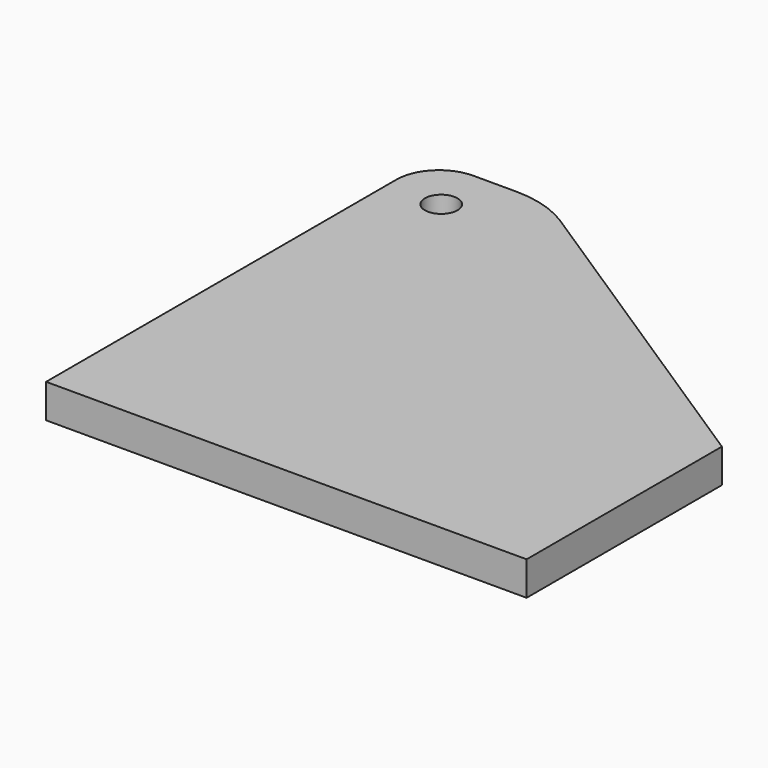
from build123d import *

# Parameters (mm, degrees)
F0_R     = 3.05
F1_DEPTH = 6.35


with BuildPart() as f1:
    # F0 (on Top) → F1 (new body)
    with BuildSketch(Plane.XY):
        with BuildLine():
            Line((-45, 37), (-45, -45))
            Line((-45, -45), (45, -45))
            Line((45, -45), (45, 0.72))
            Line((45, 0.72), (-18.093935, 41.764777))
            ThreePointArc((-18.093935, 41.764777), (-23.312098, 44.174143), (-29, 45))
            Line((-29, 45), (-37, 45))
            ThreePointArc((-37, 45), (-42.656854, 42.656854), (-45, 37))
        make_face()
        with Locations((-35, 35)):
            Circle(F0_R, mode=Mode.SUBTRACT)
    extrude(amount=F1_DEPTH)


solid = f1.part
